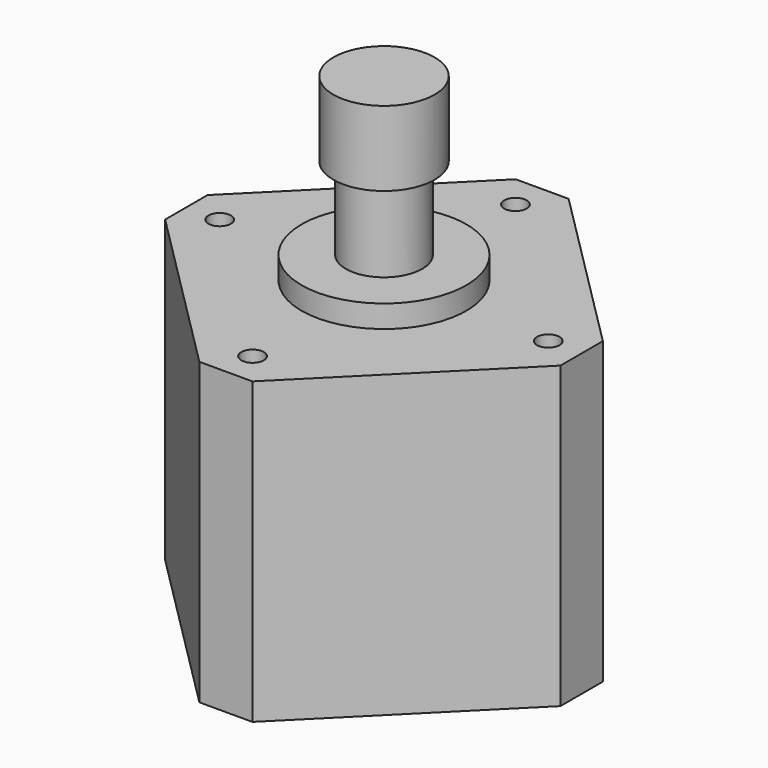
from build123d import *

# Parameters (mm, degrees)
SKETCH076_W             = 42.3
SKETCH076_H             = 42.3
PAD024_DEPTH            = 40
SKETCH075_R             = 11
PAD025_DEPTH            = 3
SKETCH077_R             = 5.1
PAD026_DEPTH            = 21
SKETCH079_R             = 1.5
POCKET047_DEPTH         = 5
CHAMFER008_SIZE         = 5
SKETCH080_R             = 6.75
PAD027_DEPTH            = 10
BODY017_PLACEMENT_ANGLE = 45


with BuildPart() as part:
    # Sketch076 → Pad024 (new body)
    with BuildSketch(Plane.XY):
        Rectangle(SKETCH076_W, SKETCH076_H)
    extrude(amount=PAD024_DEPTH)

    # Sketch075 (on Face6 of Pad024) → Pad025 (join)
    with BuildSketch(Plane.XY.offset(40)):
        Circle(SKETCH075_R)
    extrude(amount=PAD025_DEPTH)

    # Sketch077 (on Face8 of Pad025) → Pad026 (join)
    with BuildSketch(Plane.XY.offset(43)):
        Circle(SKETCH077_R)
    extrude(amount=PAD026_DEPTH)

    # Sketch079 (on Face5 of Pad026) → Pocket047 (cut)
    with BuildSketch(Plane.XY.offset(40)):
        with Locations((-15.5, 15.5)):
            Circle(SKETCH079_R)
        with Locations((15.5, 15.5)):
            Circle(SKETCH079_R)
        with Locations((15.5, -15.5)):
            Circle(SKETCH079_R)
        with Locations((-15.5, -15.5)):
            Circle(SKETCH079_R)
    extrude(amount=-POCKET047_DEPTH, mode=Mode.SUBTRACT)

    # Chamfer008
    chamfer008_edges = [part.edges().sort_by_distance(p)[0] for p in [
        (21.15, 21.15, 20),
        (21.15, -21.15, 20),
        (-21.15, 21.15, 20),
        (-21.15, -21.15, 20),
    ]]
    chamfer(chamfer008_edges, length=CHAMFER008_SIZE)

    # Sketch080 (on Face22 of Chamfer008) → Pad027 (join)
    with BuildSketch(Plane.XY.offset(64)):
        Circle(SKETCH080_R)
    extrude(amount=-PAD027_DEPTH)


with BuildPart() as part_1:
    # Body017 placement: moved
    add(part.part.moved(Location((162.9239407719, -0.0108408296, -61.1))).rotate(Axis((162.9239407719, -0.0108408296, -61.1), (0, 0, 1)), BODY017_PLACEMENT_ANGLE))


solid = part_1.part
